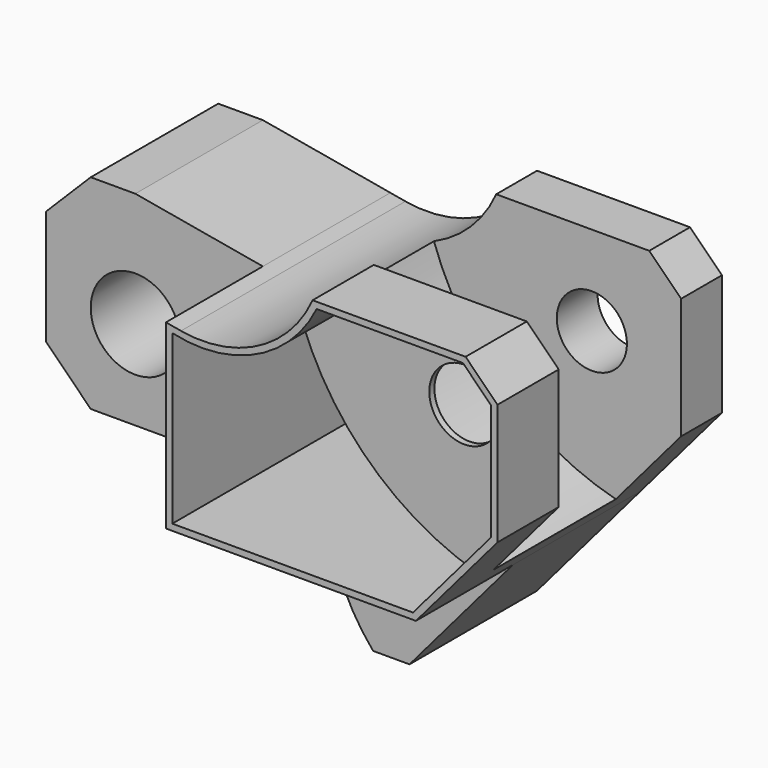
from build123d import *

# Parameters (mm, degrees)
F0_R     = 5.5
F0_R_2   = 7
F1_DEPTH = 44
F2_DEPTH = 19
F4_R     = 41
F5_DEPTH = 24
F7_DEPTH = 11
F9_DEPTH = 25


with BuildPart() as f1:
    # F0 (on Front) → F1 (new body)
    with BuildSketch(Plane.XZ):
        with BuildLine():
            Line((20, 14.47346), (20, -14))
            Line((20, -14), (25.575539, -14))
            Line((25.575539, -14), (59.205882, -14))
            Line((59.205882, -14), (72, 1))
            Line((72, 1), (72, 20))
            Line((72, 20), (67, 25))
            Line((67, 25), (43, 25))
            ThreePointArc((43, 25), (34.561099, 15.982044), (22.361381, 14.057085))
            Line((22.361381, 14.057085), (20, 14.47346))
        make_face()
        with Locations((58, 11)):
            Circle(F0_R, mode=Mode.SUBTRACT)
        Polygon((-14, 11), (-14, -7), (-7, -14), (20, -14), (20, 14.47346), (0, 18), (-7, 18), align=None)
        Circle(F0_R_2, mode=Mode.SUBTRACT)
        with BuildLine():
            Line((59.205882, -14), (25.575539, -14))
            ThreePointArc((25.575539, -14), (28.840775, -15.213414), (30.521178, -18.264706))
            ThreePointArc((30.521178, -18.264706), (32.858008, -26.115672), (37.29698, -33))
            Line((37.29698, -33), (43, -33))
            Line((43, -33), (59.205882, -14))
        make_face()
    extrude(amount=-F1_DEPTH)

    # F0 (on Front) → F2 (cut)
    with BuildSketch(Plane.XZ):
        Polygon((-14, 11), (-14, -7), (-7, -14), (20, -14), (20, 14.47346), (0, 18), (-7, 18), align=None)
        Circle(F0_R_2, mode=Mode.SUBTRACT)
        with BuildLine():
            Line((59.205882, -14), (25.575539, -14))
            ThreePointArc((25.575539, -14), (28.840775, -15.213414), (30.521178, -18.264706))
            ThreePointArc((30.521178, -18.264706), (32.858008, -26.115672), (37.29698, -33))
            Line((37.29698, -33), (43, -33))
            Line((43, -33), (59.205882, -14))
        make_face()
    extrude(amount=-F2_DEPTH, mode=Mode.SUBTRACT)

    # F4 (on offset) → F5 (cut)
    with BuildSketch(Plane.XZ.offset(-12)):
        with Locations((72, 28.701873)):
            Circle(F4_R)
    extrude(amount=-F5_DEPTH, mode=Mode.SUBTRACT)

    # F6 (on face) → F7 (cut)
    with BuildSketch(Plane.XZ):
        with BuildLine():
            ThreePointArc((43.636085, 24), (34.195381, 14.680891), (21, 13.319065))
            Line((21, 13.319065), (21, -13))
            Line((21, -13), (58.744476, -13))
            Line((58.744476, -13), (71, 1.368545))
            Line((71, 1.368545), (71, 19.585786))
            Line((71, 19.585786), (66.585786, 24))
            Line((66.585786, 24), (43.636085, 24))
        make_face()
    extrude(amount=-F7_DEPTH, mode=Mode.SUBTRACT)

    # F8 (on face) → F9 (cut, through all)
    with BuildSketch(Plane.XZ.offset(-11)):
        with BuildLine():
            Line((58.744476, -13), (59.986848, -11.543427))
            ThreePointArc((59.986848, -11.543427), (43.310182, -1.972127), (32.646683, 14.028209))
            ThreePointArc((32.646683, 14.028209), (26.876207, 12.805403), (21, 13.319065))
            Line((21, 13.319065), (21, -13))
            Line((21, -13), (58.744476, -13))
        make_face()
    extrude(amount=-F9_DEPTH, mode=Mode.SUBTRACT)


solid = f1.part
